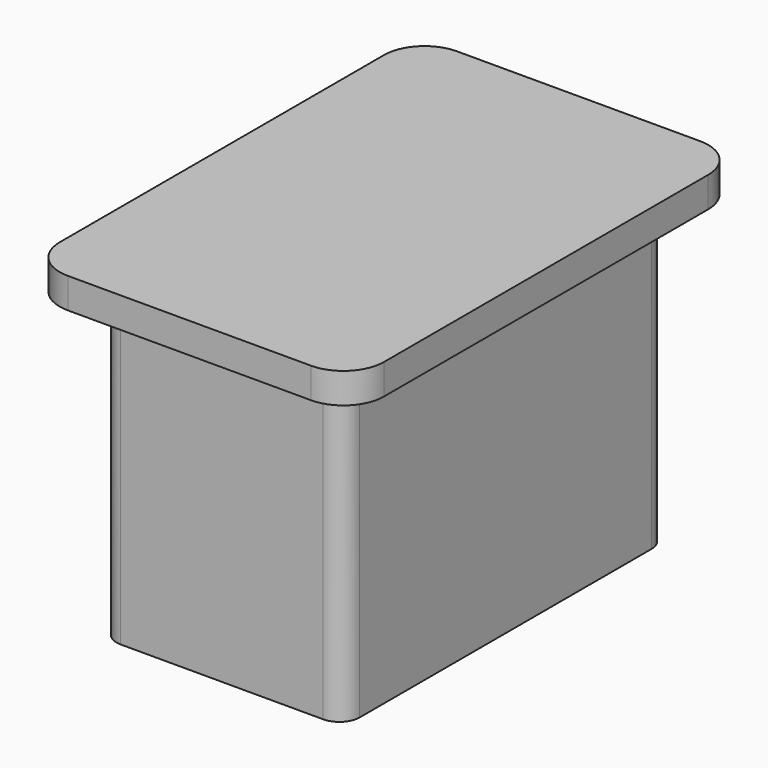
from build123d import *

# Parameters (mm, degrees)
F0_W     = 406.4
F0_H     = 609.6
F1_DEPTH = 419.1
F2_R     = 50.8
F4_DEPTH = 381


with BuildPart() as f1:
    # F0 (on Top) → F1 (new body)
    with BuildSketch(Plane.XY):
        Rectangle(F0_W, F0_H)
    extrude(amount=F1_DEPTH)

    # F2
    f2_edges = [f1.edges().sort_by_distance(p)[0] for p in [
        (-203.2, 304.8, 209.55),
        (203.2, 304.8, 209.55),
        (-203.2, -304.8, 209.55),
        (203.2, -304.8, 209.55),
    ]]
    fillet(f2_edges, radius=F2_R)

    # F3 (on face) → F4 (cut)
    with BuildSketch(Plane(origin=(0, 0, 0), x_dir=(1, 0, 0), z_dir=(0, 0, -1))):
        with BuildLine():
            ThreePointArc((152.4, -304.8), (188.3210244843, -289.9210244843), (203.2, -254))
            Line((203.2, -254), (203.2, 254))
            ThreePointArc((203.2, 254), (188.3210244843, 289.9210244843), (152.4, 304.8))
            Line((152.4, 304.8), (-152.4, 304.8))
            ThreePointArc((-152.4, 304.8), (-188.3210244843, 289.9210244843), (-203.2, 254))
            Line((-203.2, 254), (-203.2, -254))
            ThreePointArc((-203.2, -254), (-188.3210244843, -289.9210244843), (-152.4, -304.8))
            Line((-152.4, -304.8), (152.4, -304.8))
        make_face()
        with BuildLine():
            Line((-127, 254), (127, 254))
            ThreePointArc((127, 254), (144.9605122421, 246.5605122421), (152.4, 228.6))
            Line((152.4, 228.6), (152.4, -228.6))
            ThreePointArc((152.4, -228.6), (144.9605122421, -246.5605122421), (127, -254))
            Line((127, -254), (-127, -254))
            ThreePointArc((-127, -254), (-144.9605122421, -246.5605122421), (-152.4, -228.6))
            Line((-152.4, -228.6), (-152.4, 228.6))
            ThreePointArc((-152.4, 228.6), (-144.9605122421, 246.5605122421), (-127, 254))
        make_face(mode=Mode.SUBTRACT)
    extrude(amount=-F4_DEPTH, mode=Mode.SUBTRACT)


solid = f1.part
